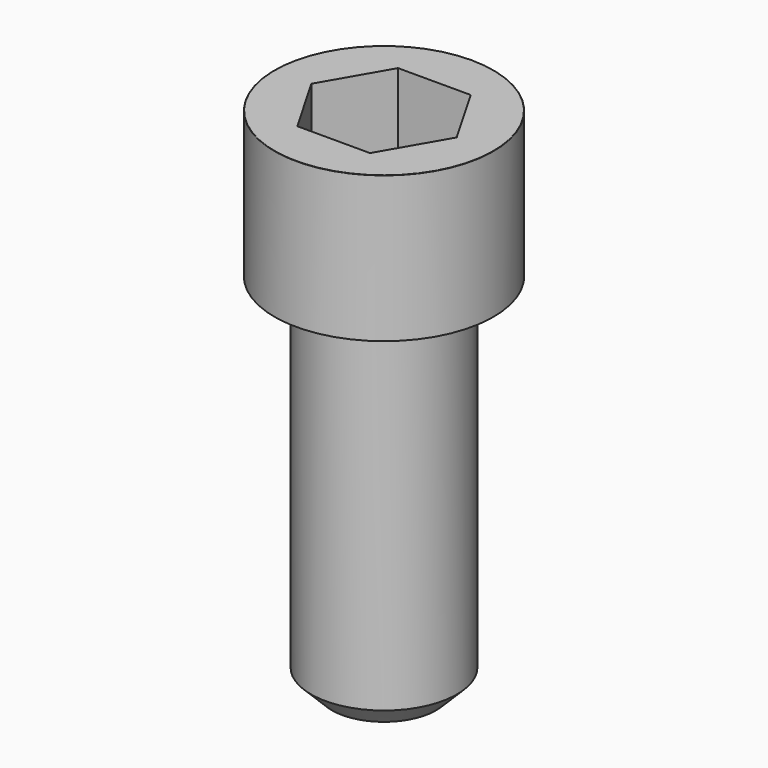
from build123d import *

# Parameters (mm, degrees)
POCKET_DEPTH = 12.07


with BuildPart() as part:
    # Sketch → Revolve (revolve)
    with BuildSketch(Plane.YZ):
        with BuildLine():
            Line((6.999, 0), (10.5, 0))
            Line((10.5, 0), (10.5, 13.97229))
            ThreePointArc((10.5, 13.97229), (10.491884, 13.991884), (10.47229, 14))
            Line((10.47229, 14), (0, 14))
            Line((0, -35), (0, 14))
            Line((5, -35), (0, -35))
            Line((7, -33), (5, -35))
            Line((7, -0.2), (7, -33))
            Line((6.999, 0), (7, -0.2))
        make_face()
    revolve(axis=Axis((0, 0, 0), (0, 0, 1)))

    # Sketch001 → Pocket (cut)
    with BuildSketch(Plane.XY.offset(14)):
        Polygon((6.968618, 0), (3.484309, 6.035), (-3.484309, 6.035), (-6.968618, 0), (-3.484309, -6.035), (3.484309, -6.035), align=None)
    extrude(amount=-POCKET_DEPTH, mode=Mode.SUBTRACT)


solid = part.part
